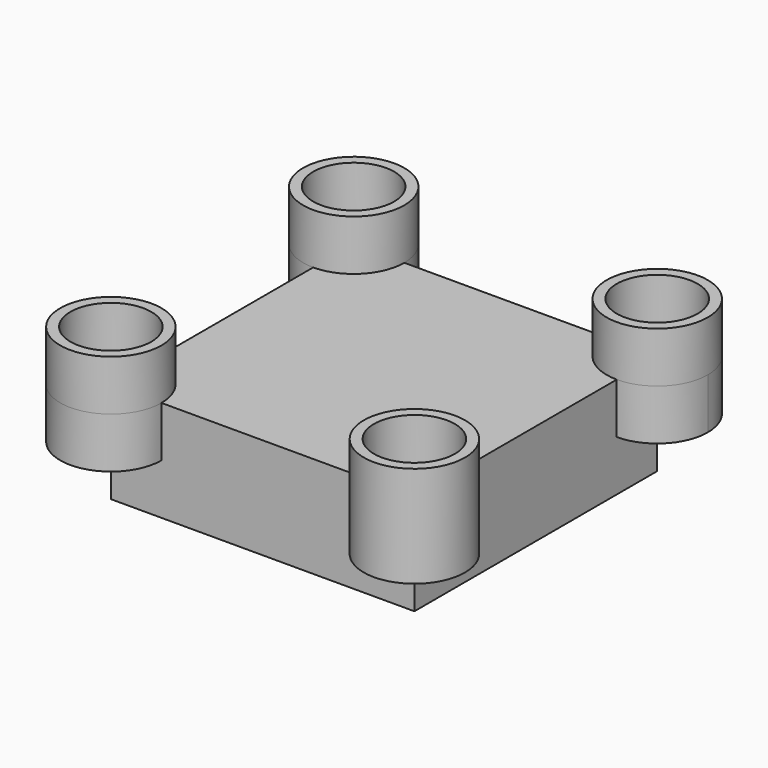
from build123d import *

# Parameters (mm, degrees)
F0_W     = 76.2
F0_H     = 76.2
F1_DEPTH = 25.4
F2_R     = 12.7
F2_R_2   = 10.16
F3_DEPTH = 12.7


with BuildPart() as f1:
    # F0 (on Top) → F1 (new body)
    with BuildSketch(Plane.XY):
        Rectangle(F0_W, F0_H)
    extrude(amount=F1_DEPTH)

    # F2 (on face) → F3 (join, symmetric)
    with BuildSketch(Plane.XY.offset(25.4)):
        with Locations((-38.1, 38.1)):
            Circle(F2_R)
        with Locations((-38.1, 38.1)):
            Circle(F2_R_2, mode=Mode.SUBTRACT)
        with Locations((38.1, 38.1)):
            Circle(F2_R)
        with Locations((38.1, 38.1)):
            Circle(F2_R_2, mode=Mode.SUBTRACT)
        with Locations((-38.1, -38.1)):
            Circle(F2_R)
        with Locations((-38.1, -38.1)):
            Circle(F2_R_2, mode=Mode.SUBTRACT)
        with Locations((38.1, -38.1)):
            Circle(F2_R)
        with Locations((38.1, -38.1)):
            Circle(F2_R_2, mode=Mode.SUBTRACT)
    extrude(amount=F3_DEPTH, both=True)


solid = f1.part
